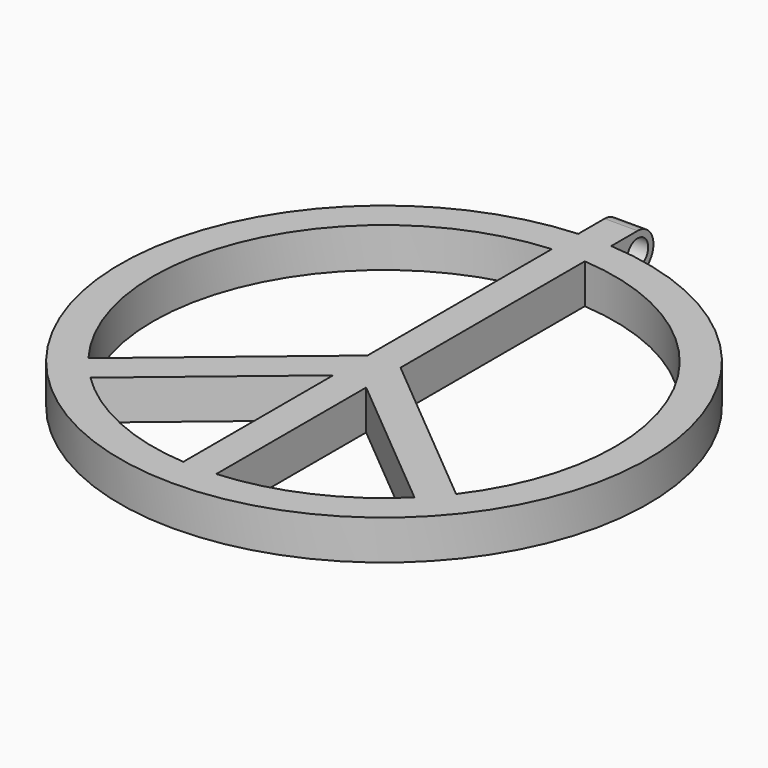
from build123d import *

# Parameters (mm, degrees)
F1_DEPTH = 7.62
F2_R     = 2.54
F3_DEPTH = 25.4


with BuildPart() as f1:
    # F0 (on Top) → F1 (new body)
    with BuildSketch(Plane.XY):
        with BuildLine():
            Line((-3.175, 60.860684), (-3.175, 50.700684))
            ThreePointArc((-3.175, 50.700684), (0, -50.8), (3.175, 50.700684))
            Line((3.175, 50.700684), (3.175, 60.860684))
            Line((3.175, 60.860684), (-3.175, 60.860684))
        make_face()
        with BuildLine():
            Line((-31.192057, -31.667934), (-3.175, -8.272762))
            Line((-3.175, -8.272762), (-3.175, -44.336462))
            ThreePointArc((-3.175, -44.336462), (-18.313835, -40.501925), (-31.192057, -31.667934))
        make_face(mode=Mode.SUBTRACT)
        with BuildLine():
            Line((3.175, -44.336462), (3.175, -8.272762))
            Line((3.175, -8.272762), (31.192057, -31.667934))
            ThreePointArc((31.192057, -31.667934), (18.313835, -40.501925), (3.175, -44.336462))
        make_face(mode=Mode.SUBTRACT)
        with BuildLine():
            ThreePointArc((-35.38748, -26.89849), (-40.501491, 18.314794), (-3.175, 44.336462))
            Line((-3.175, 44.336462), (-3.175, 0))
            Line((-3.175, 0), (-35.38748, -26.89849))
        make_face(mode=Mode.SUBTRACT)
        with BuildLine():
            Line((3.175, 0), (3.175, 44.336462))
            ThreePointArc((3.175, 44.336462), (40.501491, 18.314794), (35.38748, -26.89849))
            Line((35.38748, -26.89849), (3.175, 0))
        make_face(mode=Mode.SUBTRACT)
    extrude(amount=F1_DEPTH)

    # F2 (on face) → F3 (cut)
    with BuildSketch(Plane(origin=(-3.175, 0, 0), x_dir=(0, -1, 0), z_dir=(-1, 0, 0))):
        with Locations((-57.050684, 3.81)):
            Circle(F2_R)
        with BuildLine():
            ThreePointArc((-60.860684, 3.81), (-59.744761, 6.504077), (-57.050684, 7.62))
            Line((-57.050684, 7.62), (-60.860684, 7.62))
            Line((-60.860684, 7.62), (-60.860684, 3.81))
        make_face()
        with BuildLine():
            Line((-60.860684, 0), (-57.050684, 0))
            ThreePointArc((-57.050684, 0), (-59.744761, 1.115923), (-60.860684, 3.81))
            Line((-60.860684, 3.81), (-60.860684, 0))
        make_face()
    extrude(amount=-F3_DEPTH, mode=Mode.SUBTRACT)


solid = f1.part
